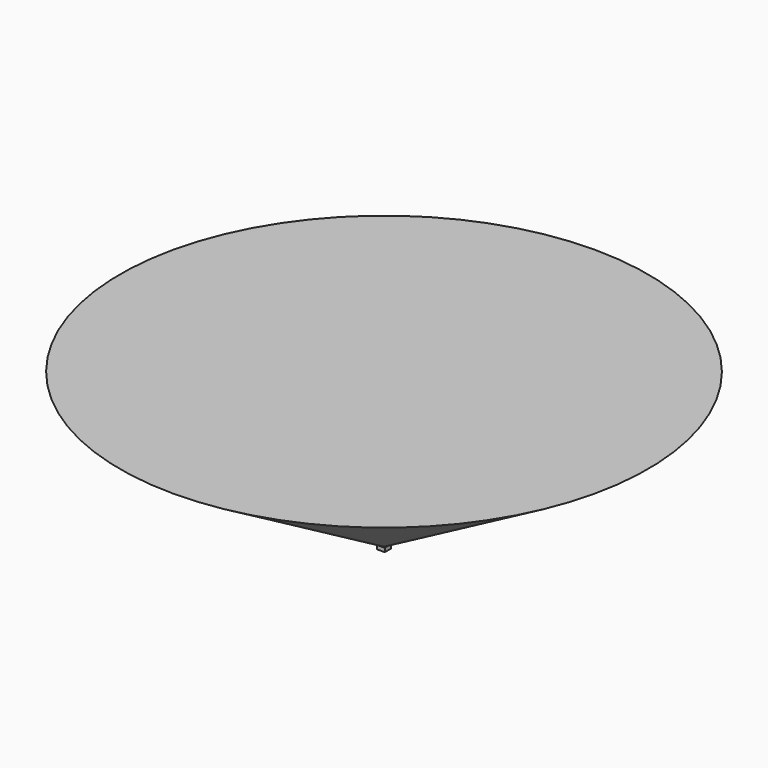
from build123d import *

# Parameters (mm, degrees)
F0_W     = 5
F0_H     = 5
F1_DEPTH = 2.5
F2_R     = 2
F3_DEPTH = 0.5


with BuildPart() as f1:
    # F0 (on Top) → F1 (new body)
    with BuildSketch(Plane.XY):
        Rectangle(F0_W, F0_H)
    extrude(amount=F1_DEPTH)

    # F2 (on face) → F3 (cut)
    with BuildSketch(Plane.XY.offset(2.5)):
        Circle(F2_R)
    extrude(amount=-F3_DEPTH, mode=Mode.SUBTRACT)


with BuildPart() as f5:
    # F4 (on Right) → F5 (revolve)
    with BuildSketch(Plane.YZ):
        Polygon((-173.205081, 102.5), (-2, 2.5), (0, 2.5), (0, 102.5), align=None)
    revolve(axis=Axis((0, 0, 52.5), (0, 0, -1)))


solid = Compound([f1.part, f5.part])
